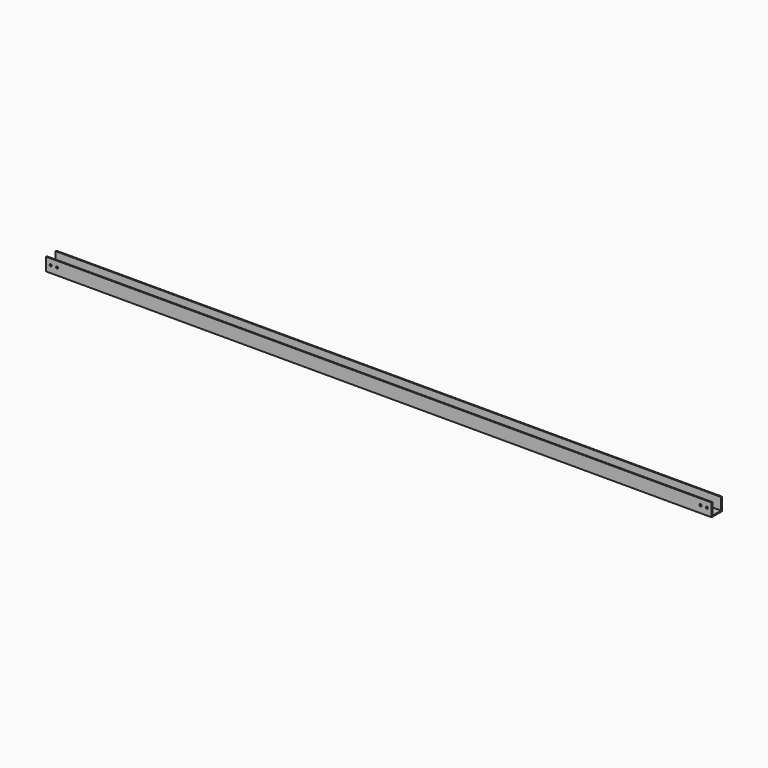
from build123d import *

# Parameters (mm, degrees)
F0_W     = 1.5
F0_H     = 18
F1_DEPTH = 500
F3_D     = 3.15
F3_DEPTH = 1.501


with BuildPart() as f1:
    # F0 (on Right) → F1 (new body, symmetric)
    with BuildSketch(Plane.YZ):
        with Locations((0.8182681763, 16.2255928113)):
            Rectangle(F0_W, F0_H)
        Polygon((1.5682681763, 7.2255928113), (0.0682681763, 7.2255928113), (0.0682681763, 5.7255928113), (19.5682681763, 5.7255928113), (19.5682681763, 7.2255928113), (18.0682681763, 7.2255928113), align=None)
        with Locations((18.8182681763, 16.2255928113)):
            Rectangle(F0_W, F0_H)
    extrude(amount=F1_DEPTH, both=True)

    # F3 (through all, one way)
    with BuildSketch(Plane(origin=(0, 1.5682681763, 0), x_dir=(-1, 0, 0), z_dir=(0, 1, 0))):
        with Locations((-483.5, 16.2255928113), (-493, 16.2255928113), (493, 16.2255928113), (483.5, 16.2255928113)):
            Circle(F3_D / 2)
    extrude(amount=-F3_DEPTH, mode=Mode.SUBTRACT)


solid = f1.part
